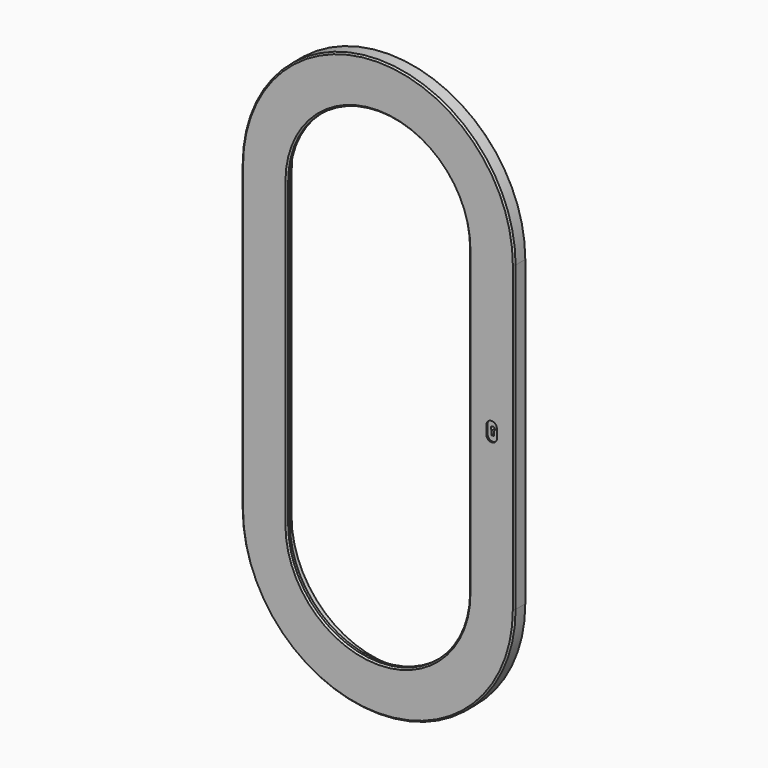
from build123d import *

# Parameters (mm, degrees)
EXTRUDE016_DEPTH = 6
EXTRUDE017_DEPTH = 3
EXTRUDE026_DEPTH = 9
EXTRUDE015_DEPTH = 1
CHAMFER_SIZE     = 2


with BuildPart() as lockbodycutout:
    # Sketch021 → Extrude016 (new body)
    with BuildSketch(Plane.XZ):
        with BuildLine():
            Line((-20, 26), (19, 26))
            ThreePointArc((25, 20), (23.242641, 24.242641), (19, 26))
            Line((25, 20), (25, -18))
            ThreePointArc((19, -24), (23.242641, -22.242641), (25, -18))
            Line((19, -24), (-20, -24))
            Line((-20, -24), (-20, 26))
        make_face()
    extrude(amount=EXTRUDE016_DEPTH)


with BuildPart() as lockbodycutout_1:
    # Extrude016 placement: moved
    add(lockbodycutout.part.moved(Location((150, 7, 0))))


with BuildPart() as lockmountcutout:
    # Sketch024 → Extrude017 (new body)
    with BuildSketch(Plane.XZ):
        with BuildLine():
            Line((-20, 32), (19, 32))
            ThreePointArc((25, 26), (23.242641, 30.242641), (19, 32))
            Line((25, 26), (25, -24))
            ThreePointArc((19, -30), (23.242641, -28.242641), (25, -24))
            Line((19, -30), (-20, -30))
            Line((-20, -30), (-20, 32))
        make_face()
    extrude(amount=EXTRUDE017_DEPTH)


with BuildPart() as lockmountcutout_1:
    # Extrude017 placement: moved
    add(lockmountcutout.part.moved(Location((150, 10, 0))))


with BuildPart() as keyhole:
    # Sketch034 → Extrude026 (new body)
    with BuildSketch(Plane.XZ):
        with BuildLine():
            ThreePointArc((1.5, -2.304886), (0, 2.75), (-1.5, -2.304886))
            Line((-1.5, -2.304886), (-1.5, -8))
            Line((-1.5, -8), (1.5, -8))
            Line((1.5, -8), (1.5, -2.304886))
        make_face()
    extrude(amount=EXTRUDE026_DEPTH)


with BuildPart() as keyhole_1:
    # Extrude026 placement: moved
    add(keyhole.part.moved(Location((150, 1, 0))))


with BuildPart() as doorcutouts:
    # Sketch018 → Extrude015 (new body, symmetric)
    with BuildSketch(Plane.XZ):
        with BuildLine():
            ThreePointArc((157, 3), (150, 10), (143, 3))
            Line((143, 3), (143, -8))
            ThreePointArc((143, -8), (150, -15), (157, -8))
            Line((157, -8), (157, 3))
        make_face()
    extrude(amount=EXTRUDE015_DEPTH, both=True)


with BuildPart() as doorcutouts_1:
    # Extrude015 placement: moved
    add(doorcutouts.part.moved(Location((0, -9, 0))))

    # Fusion: union LockBodyCutout, LockMountCutout, Keyhole
    add(lockbodycutout_1.part)
    add(lockmountcutout_1.part)
    add(keyhole_1.part)


with BuildPart() as door:
    # Sweep001: sweep along a path in Sketch001
    with BuildLine(Plane.XZ) as sweep001_path:
        ThreePointArc((180, 200), (0, 380), (-180, 200))
        Line((-180, 200), (-180, -200))
        ThreePointArc((-180, -200), (0, -380), (180, -200))
        Line((180, -200), (180, 200))
    # Sketch006 → Sweep001 (sweep)
    with BuildSketch(Plane.XY):
        Polygon((120, -10), (120, -5), (130, -5), (130, 10), (180, 10), (180, -10), align=None)
    sweep(path=sweep001_path.line)

    # Cut: cut DoorCutouts
    add(doorcutouts_1.part, mode=Mode.SUBTRACT)

    # Chamfer
    chamfer_edges = [door.edges().sort_by_distance(p)[0] for p in [
        (0, -10, 320),
        (0, -10, 380),
        (120, -10, 0),
        (-120, -10, 0),
        (0, 10, 380),
        (180, -10, 0),
        (-180, -10, 0),
        (0, -10, -320),
        (180, 10, 0),
        (-180, 10, 0),
        (0, -10, -380),
        (0, 10, -380),
    ]]
    chamfer(chamfer_edges, length=CHAMFER_SIZE)


solid = door.part
